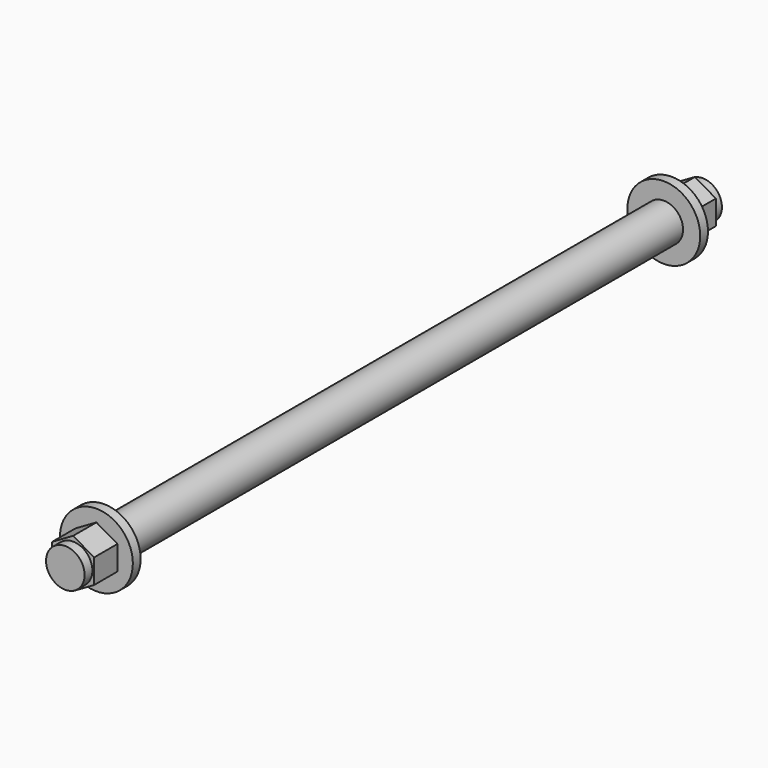
from build123d import *

# Parameters (mm, degrees)
SKETCH013_R     = 3.96875
PAD009_DEPTH    = 164
SKETCH014_R     = 7.5
PAD010_DEPTH    = 10
SKETCH015_R     = 7.5
POCKET003_DEPTH = 8
SKETCH016_R     = 7.5
SKETCH016_R_2   = 3.96875
POCKET004_DEPTH = 2
SKETCH017_R     = 7.5
PAD011_DEPTH    = 10
SKETCH018_R     = 7.5
POCKET005_DEPTH = 8
SKETCH019_R     = 7.5
SKETCH019_R_2   = 3.96875
POCKET006_DEPTH = 2


with BuildPart() as part:
    # Sketch013 → Pad009 (new body)
    with BuildSketch(Plane(origin=(500, 82, 56), x_dir=(1, 0, 0), z_dir=(0, -1, 0))):
        Circle(SKETCH013_R)
    extrude(amount=PAD009_DEPTH)

    # Sketch014 → Pad010 (new body)
    with BuildSketch(Plane(origin=(500, 82, 56), x_dir=(1, 0, 0), z_dir=(0, 1, 0))):
        Circle(SKETCH014_R)
    extrude(amount=-PAD010_DEPTH)

    # Sketch015 → Pocket003 (cut)
    with BuildSketch(Plane(origin=(500, 82, 56), x_dir=(1, 0, 0), z_dir=(0, 1, 0))):
        Circle(SKETCH015_R)
        Polygon((0, 5), (-4.330127, 2.5), (-4.330127, -2.5), (0, -5), (4.330127, -2.5), (4.330127, 2.5), align=None, mode=Mode.SUBTRACT)
    extrude(amount=-POCKET003_DEPTH, mode=Mode.SUBTRACT)

    # Sketch016 → Pocket004 (cut)
    with BuildSketch(Plane(origin=(500, 82, 56), x_dir=(1, 0, 0), z_dir=(0, 1, 0))):
        Circle(SKETCH016_R)
        Circle(SKETCH016_R_2, mode=Mode.SUBTRACT)
    extrude(amount=-POCKET004_DEPTH, mode=Mode.SUBTRACT)

    # Sketch017 → Pad011 (new body)
    with BuildSketch(Plane(origin=(500, -82, 56), x_dir=(1, 0, 0), z_dir=(0, -1, 0))):
        Circle(SKETCH017_R)
    extrude(amount=-PAD011_DEPTH)

    # Sketch018 → Pocket005 (cut)
    with BuildSketch(Plane(origin=(500, -82, 56), x_dir=(1, 0, 0), z_dir=(0, -1, 0))):
        Circle(SKETCH018_R)
        Polygon((0, 5), (-4.330127, 2.5), (-4.330127, -2.5), (0, -5), (4.330127, -2.5), (4.330127, 2.5), align=None, mode=Mode.SUBTRACT)
    extrude(amount=-POCKET005_DEPTH, mode=Mode.SUBTRACT)

    # Sketch019 → Pocket006 (cut)
    with BuildSketch(Plane(origin=(500, -82, 56), x_dir=(1, 0, 0), z_dir=(0, -1, 0))):
        Circle(SKETCH019_R)
        Circle(SKETCH019_R_2, mode=Mode.SUBTRACT)
    extrude(amount=-POCKET006_DEPTH, mode=Mode.SUBTRACT)


with BuildPart() as part_1:
    # Clone015 placement: moved
    add(part.part.moved(Location((0, 0, -112))))


solid = part_1.part
